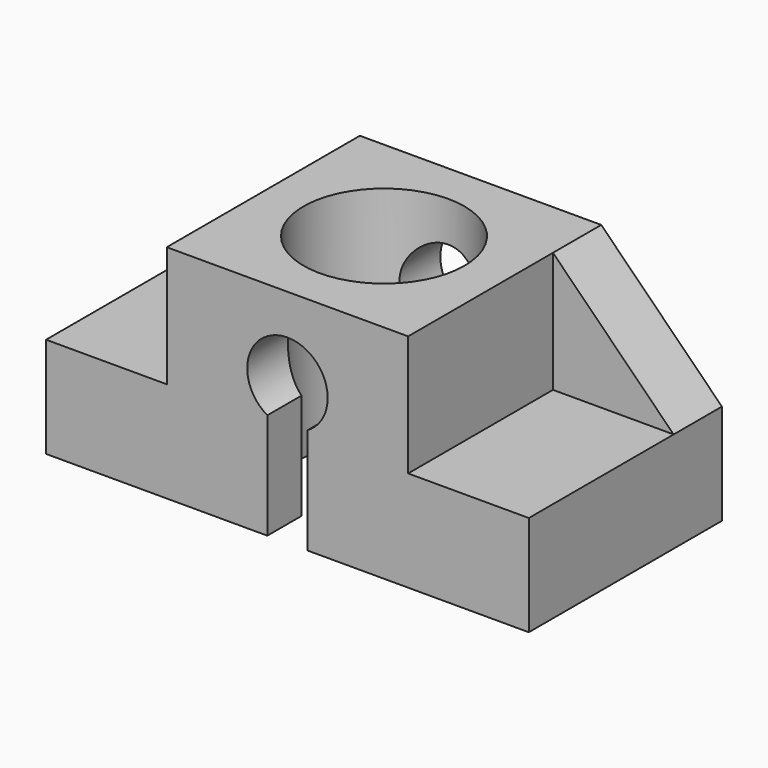
from build123d import *

# Parameters (mm, degrees)
F0_W     = 1200
F0_H     = 550
F1_DEPTH = 600
F2_W     = 300
F2_H     = 300
F3_DEPTH = 600.001
F5_DEPTH = 150
F6_R     = 200
F7_DEPTH = 550.001
F9_DEPTH = 600.001


with BuildPart() as f1:
    # F0 (on Front) → F1 (new body)
    with BuildSketch(Plane.XZ):
        Rectangle(F0_W, F0_H)
    extrude(amount=F1_DEPTH)

    # F2 (on face) → F3 (cut, through all)
    with BuildSketch(Plane.XZ.offset(600)):
        with Locations((-450, 125)):
            Rectangle(F2_W, F2_H)
        with Locations((450, 125)):
            Rectangle(F2_W, F2_H)
    extrude(amount=-F3_DEPTH, mode=Mode.SUBTRACT)

    # F4 (on face) → F5 (join)
    with BuildSketch(Plane(origin=(0, 0, 0), x_dir=(-1, 0, 0), z_dir=(0, 1, 0))):
        Polygon((-300, -25), (-300, 275), (-600, -25), align=None)
        Polygon((600, -25), (300, 275), (300, -25), align=None)
    extrude(amount=-F5_DEPTH)

    # F6 (on face) → F7 (cut, through all)
    with BuildSketch(Plane.XY.offset(275)):
        with Locations((0, -300)):
            Circle(F6_R)
        with Locations((0, -300)):
            Circle(F6_R)
    extrude(amount=-F7_DEPTH, mode=Mode.SUBTRACT)

    # F8 (on face) → F9 (cut, through all)
    with BuildSketch(Plane.XZ.offset(600)):
        with BuildLine():
            ThreePointArc((50, -11.6025403784), (86.6025403784, 25), (100, 75))
            ThreePointArc((100, 75), (-50, 161.6025403784), (-50, -11.6025403784))
            Line((-50, -11.6025403784), (-50, 75))
            Line((-50, 75), (50, 75))
            Line((50, 75), (50, -11.6025403784))
        make_face()
        with BuildLine():
            Line((-50, 75), (-50, -11.6025403784))
            ThreePointArc((-50, -11.6025403784), (0, -25), (50, -11.6025403784))
            Line((50, -11.6025403784), (50, 75))
            Line((50, 75), (-50, 75))
        make_face()
        with BuildLine():
            ThreePointArc((50, -11.6025403784), (0, -25), (-50, -11.6025403784))
            Line((-50, -11.6025403784), (-50, -625))
            Line((-50, -625), (50, -625))
            Line((50, -625), (50, -11.6025403784))
        make_face()
    extrude(amount=-F9_DEPTH, mode=Mode.SUBTRACT)


solid = f1.part
